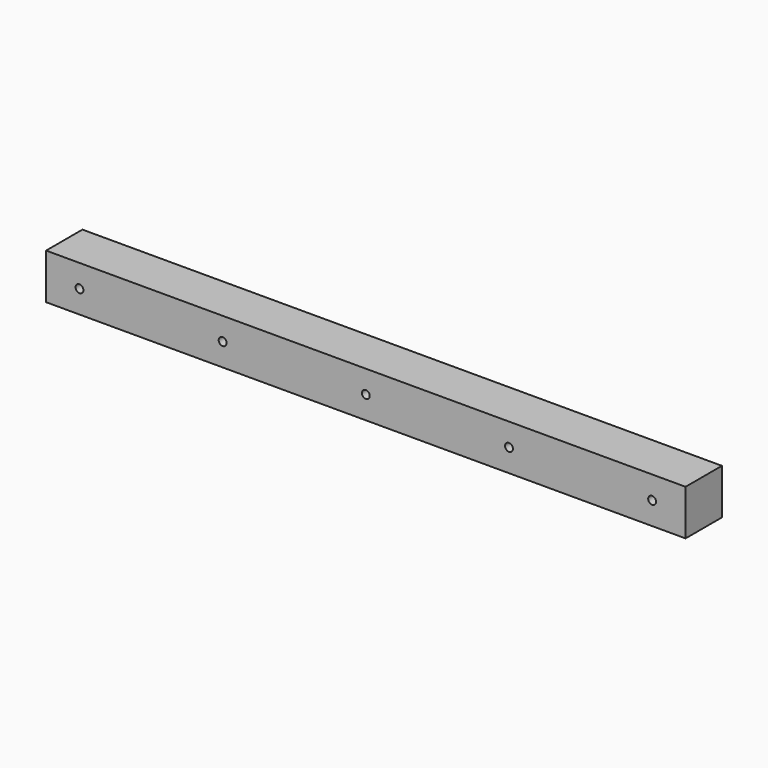
from build123d import *

# Parameters (mm, degrees)
F0_W     = 268
F0_H     = 19.05
F1_DEPTH = 19.05
F3_D     = 3.3


with BuildPart() as f1:
    # F0 (on Front) → F1 (new body)
    with BuildSketch(Plane.XZ):
        Rectangle(F0_W, F0_H)
    extrude(amount=F1_DEPTH)

    # F3 (through all)
    with Locations(Plane.XZ.offset(19.05)):
        with Locations((-120, 0), (-60, 0), (0, 0), (60, 0), (120, 0)):
            Hole(F3_D / 2)


solid = f1.part
